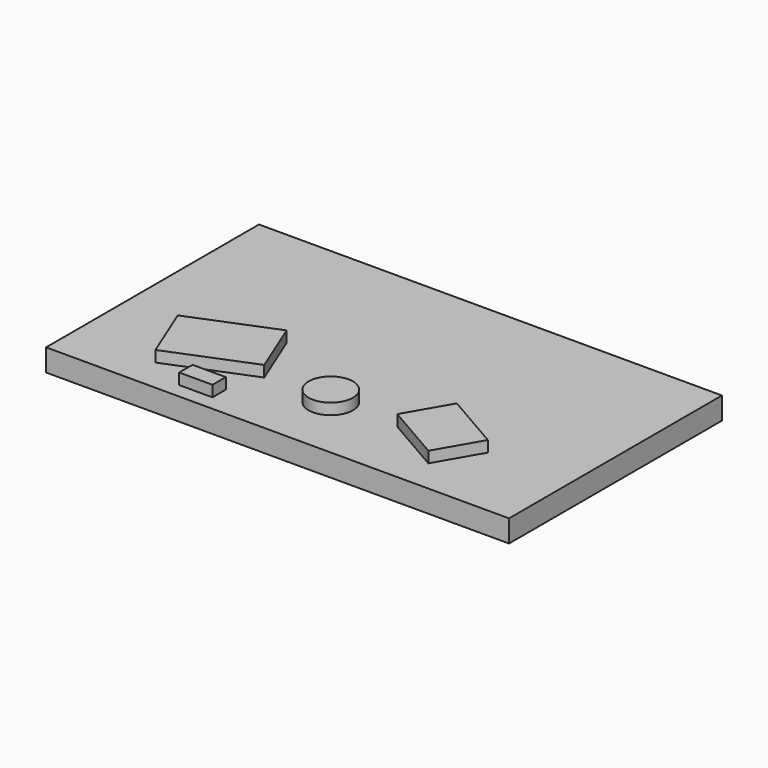
from build123d import *

# Parameters (mm, degrees)
F0_W     = 1060.45
F0_H     = 609.6
F2_DEPTH = 50.8
F1_R     = 50.8
F1_W     = 76.2
F1_H     = 38.1
F3_DEPTH = 25.4


with BuildPart() as f2:
    # F0 (on Top) → F2 (new body)
    with BuildSketch(Plane.XY):
        with Locations((530.225, 304.8)):
            Rectangle(F0_W, F0_H)
    extrude(amount=-F2_DEPTH)

    # F1 (on face) → F3 (join)
    with BuildSketch(Plane.XY):
        Polygon((377.825, 152.399999), (325.4375, 281.905365), (137.066058, 205.705365), (189.453558, 76.199999), align=None)
        Polygon((814.607272, 76.199999), (871.757272, 175.186702), (739.775, 251.386702), (682.625, 152.399999), align=None)
        with Locations((530.225, 152.399999)):
            Circle(F1_R)
        with Locations((315.388591, 53.618372)):
            Rectangle(F1_W, F1_H)
    extrude(amount=F3_DEPTH)


solid = f2.part
